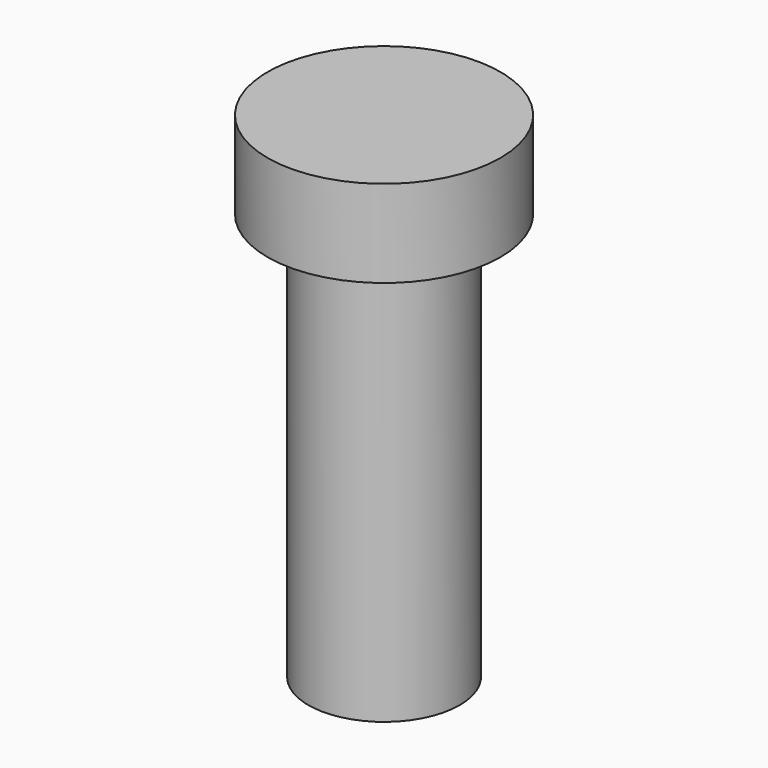
from build123d import *

# Parameters (mm, degrees)
CYLINDER004_R     = 2.6
CYLINDER004_DEPTH = 14
CYLINDER003_R     = 4
CYLINDER003_DEPTH = 3


with BuildPart() as button_pusher:
    # Cylinder004 → Cylinder004 (new body)
    with BuildSketch(Plane.XY):
        Circle(CYLINDER004_R)
    extrude(amount=CYLINDER004_DEPTH)


with BuildPart() as button_pusher_fusion:
    # Cylinder003 → Cylinder003 (new body)
    with BuildSketch(Plane.XY.offset(14)):
        Circle(CYLINDER003_R)
    extrude(amount=CYLINDER003_DEPTH)

    # Fusion009: union button pusher
    add(button_pusher.part)


solid = button_pusher_fusion.part
